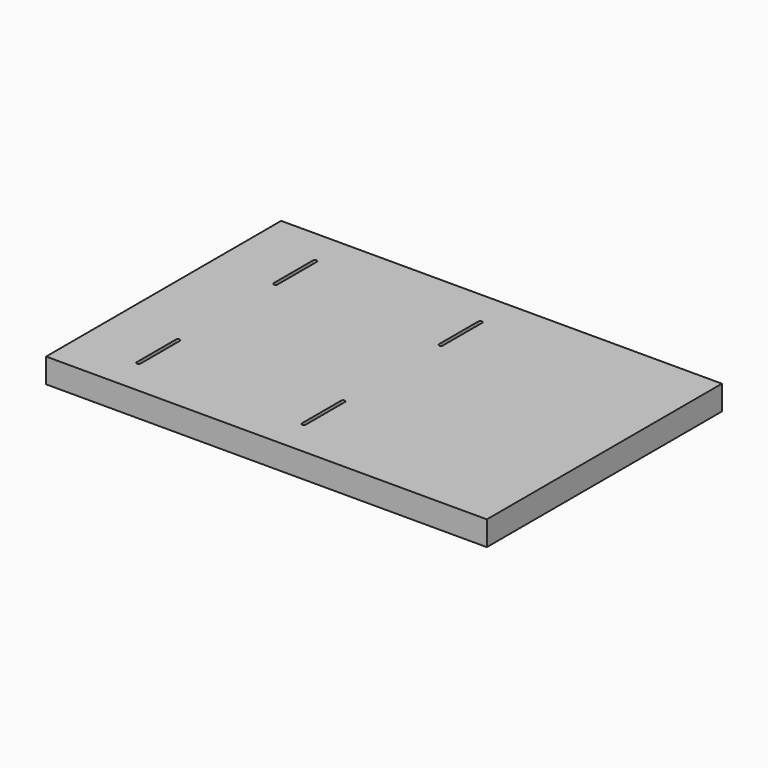
from build123d import *

# Parameters (mm, degrees)
F0_W     = 914.4
F0_H     = 609.6
F1_DEPTH = 50.8
F3_DEPTH = 50.8


with BuildPart() as f1:
    # F0 (on Top) → F1 (new body)
    with BuildSketch(Plane.XY):
        Rectangle(F0_W, F0_H)
    extrude(amount=F1_DEPTH)

    # F2 (on Top) → F3 (cut)
    with BuildSketch(Plane.XY):
        with BuildLine():
            Line((-322.2625, 127), (-322.2625, 228.6))
            ThreePointArc((-322.2625, 228.6), (-326.23125, 232.56875), (-330.2, 228.6))
            Line((-330.2, 228.6), (-330.2, 127))
            ThreePointArc((-330.2, 127), (-326.23125, 123.03125), (-322.2625, 127))
        make_face()
        with BuildLine():
            Line((20.6375, 127), (20.6375, 228.6))
            ThreePointArc((20.6375, 228.6), (16.66875, 232.56875), (12.7, 228.6))
            Line((12.7, 228.6), (12.7, 127))
            ThreePointArc((12.7, 127), (16.66875, 123.03125), (20.6375, 127))
        make_face()
        with BuildLine():
            Line((-322.2625, -228.6), (-322.2625, -127))
            ThreePointArc((-322.2625, -127), (-326.23125, -123.03125), (-330.2, -127))
            Line((-330.2, -127), (-330.2, -228.6))
            ThreePointArc((-330.2, -228.6), (-326.23125, -232.56875), (-322.2625, -228.6))
        make_face()
        with BuildLine():
            Line((20.6375, -228.6), (20.6375, -127))
            ThreePointArc((20.6375, -127), (16.66875, -123.03125), (12.7, -127))
            Line((12.7, -127), (12.7, -228.6))
            ThreePointArc((12.7, -228.6), (16.66875, -232.56875), (20.6375, -228.6))
        make_face()
    extrude(amount=F3_DEPTH, mode=Mode.SUBTRACT)


solid = f1.part
